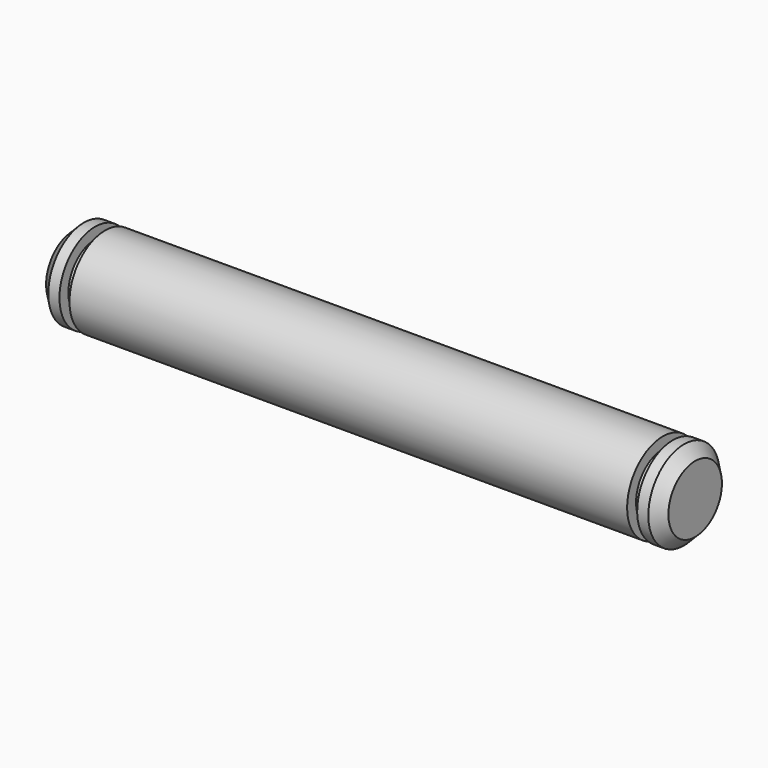
from build123d import *

# Parameters (mm, degrees)
F2_SIZE = 1


with BuildPart() as f1:
    # F0 (on Front) → F1 (revolve)
    with BuildSketch(Plane.XZ):
        Polygon((0, 4), (0, 0), (55.8, 0), (55.8, 4), (53.8, 4), (53.8, 3), (52.9, 3), (52.9, 4), (2.9, 4), (2.9, 3), (2, 3), (2, 4), align=None)
    revolve(axis=Axis((27.761492, 0, 0), (1, 0, 0)))

    # F2
    f2_edges = [f1.edges().sort_by_distance(p)[0] for p in [
        (55.8, 0, -4),
        (0, 0, -4),
    ]]
    chamfer(f2_edges, length=F2_SIZE)


solid = f1.part
